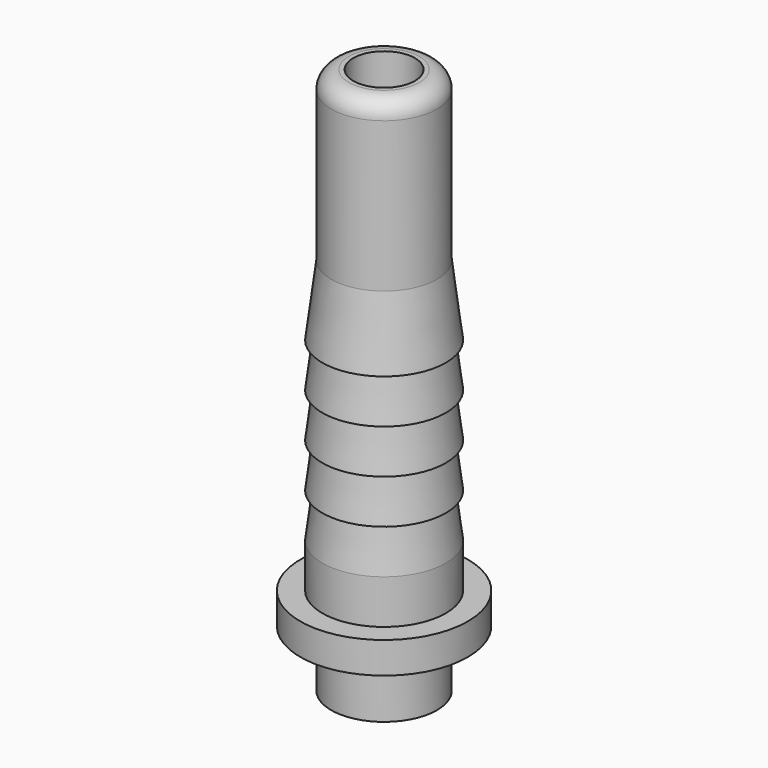
from build123d import *

# Parameters (mm, degrees)
CYLINDER003_R     = 3.5
CYLINDER003_DEPTH = 62
ARRAY_Z_COUNT     = 5
ARRAY_Z_PITCH     = 5
CYLINDER001_R     = 7
CYLINDER001_DEPTH = 5
CYLINDER002_R     = 9.5
CYLINDER002_DEPTH = 3.559183
CYLINDER004_R     = 4
CYLINDER004_DEPTH = 62
CYLINDER_R        = 6
CYLINDER_DEPTH    = 60
TORUS_R           = 2


with BuildPart() as cylinder003:
    # Cylinder003 → Cylinder003 (new body)
    with BuildSketch(Plane.XY):
        Circle(CYLINDER003_R)
    extrude(amount=CYLINDER003_DEPTH)


with BuildPart() as fusion002:
    # Cone → Cone (revolve)
    with BuildSketch(Plane.XZ):
        Polygon((0, 0), (7, 0), (6, 8), (0, 8), align=None)
    revolve(axis=Axis((0, 0, 0), (0, 0, 1)))

    # Array Z: Fusion002 ×5


with BuildPart() as fusion002_1:
    add(fusion002.part)
    with Locations(*[(0, 0, i * ARRAY_Z_PITCH) for i in range(1, ARRAY_Z_COUNT)]):
        add(fusion002.part)


with BuildPart() as fusion002_2:
    # Array placement: moved
    add(fusion002_1.part.moved(Location((0, 0, 15))))


with BuildPart() as cylinder001:
    # Cylinder001 → Cylinder001 (new body)
    with BuildSketch(Plane.XY.offset(10)):
        Circle(CYLINDER001_R)
    extrude(amount=CYLINDER001_DEPTH)


with BuildPart() as cylinder002:
    # Cylinder002 → Cylinder002 (new body)
    with BuildSketch(Plane.XY.offset(6.440817)):
        Circle(CYLINDER002_R)
    extrude(amount=CYLINDER002_DEPTH)


with BuildPart() as fusion:
    # Cone001 → Cone001 (revolve)
    with BuildSketch(Plane(origin=(0, 0, 6), x_dir=(1, 0, 0), z_dir=(0, -1, 0))):
        Polygon((0, 0), (6, 0), (9.5, 0.440817), (0, 0.440817), align=None)
    revolve(axis=Axis((0, 0, 6), (0, 0, 1)))

    # Fusion: union Cylinder001, Cylinder002
    add(cylinder001.part)
    add(cylinder002.part)


with BuildPart() as cylinder004:
    # Cylinder004 → Cylinder004 (new body)
    with BuildSketch(Plane.XY):
        Circle(CYLINDER004_R)
    extrude(amount=CYLINDER004_DEPTH)


with BuildPart() as fusion003:
    # Cylinder → Cylinder (new body)
    with BuildSketch(Plane.XY):
        Circle(CYLINDER_R)
    extrude(amount=CYLINDER_DEPTH)

    # Fusion001: union Fusion, Cylinder004
    add(fusion.part)
    add(cylinder004.part)

    # Fusion003: union Fusion002
    add(fusion002_2.part)


with BuildPart() as obj1:
    # Torus → Torus (revolve)
    with BuildSketch(Plane(origin=(0, 0, 60), x_dir=(1, 0, 0), z_dir=(0, -1, 0))):
        with Locations((4, 0)):
            Circle(TORUS_R)
    revolve(axis=Axis((0, 0, 60), (0, 0, 1)))

    # Fusion004: union Fusion003
    add(fusion003.part)

    # Cut: cut Cylinder003
    add(cylinder003.part, mode=Mode.SUBTRACT)


solid = obj1.part
